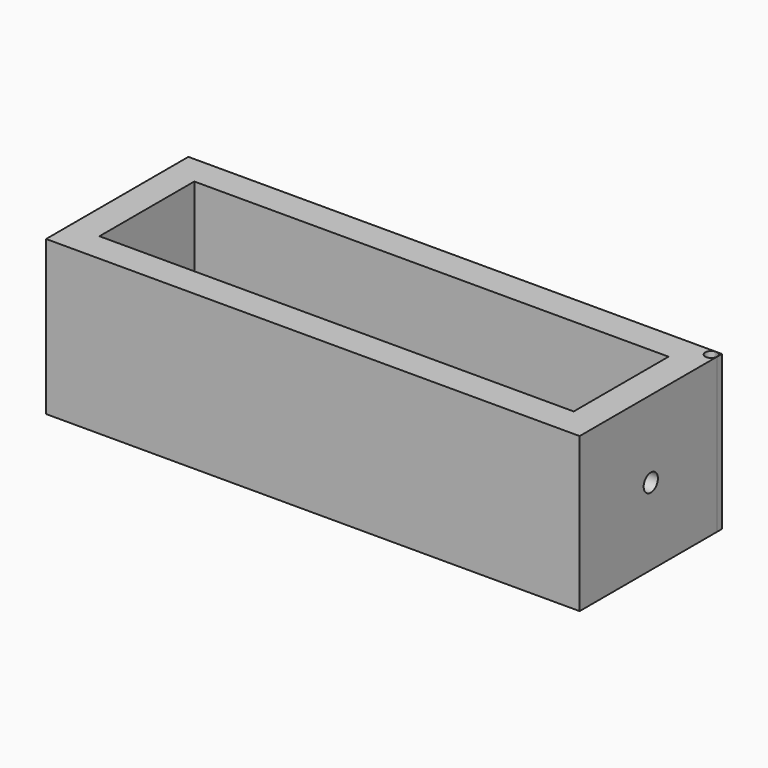
from build123d import *

# Parameters (mm, degrees)
F0_W     = 400
F0_H     = 100
F1_DEPTH = 65
F2_R     = 7.5
F3_DEPTH = 500


with BuildPart() as f1:
    # F0 (on Top) → F1 (new body, symmetric)
    with BuildSketch(Plane.XY):
        with BuildLine():
            Line((219.9999999506, 75), (-225, 75))
            Line((-225, 75), (-225, -75))
            Line((-225, -75), (225, -75))
            Line((225, -75), (225, 70))
            ThreePointArc((225, 70), (216.4644661115, 66.4644660766), (219.9999999506, 75))
        make_face()
        Rectangle(F0_W, F0_H, mode=Mode.SUBTRACT)
        with BuildLine():
            Line((219.9999999506, 75), (-225, 75))
            Line((-225, 75), (-225, -75))
            Line((-225, -75), (225, -75))
            Line((225, -75), (225, 70))
            ThreePointArc((225, 70), (216.4644661115, 66.4644660766), (219.9999999506, 75))
        make_face()
        Rectangle(F0_W, F0_H, mode=Mode.SUBTRACT)
    extrude(amount=F1_DEPTH, both=True)

    # F2 (on face) → F3 (cut, symmetric)
    with BuildSketch(Plane(origin=(-225, 0, 0), x_dir=(0, -1, 0), z_dir=(-1, 0, 0))):
        Circle(F2_R)
    extrude(amount=F3_DEPTH, both=True, mode=Mode.SUBTRACT)


with BuildPart() as f1b:
    # F0 (on Top) → F1, piece 2 (new body, symmetric)
    with BuildSketch(Plane.XY):
        with BuildLine():
            Line((225, 75), (219.9999999506, 75))
            ThreePointArc((219.9999999506, 75), (223.5355338885, 73.5355339234), (225, 70))
            Line((225, 70), (225, 75))
        make_face()
    extrude(amount=F1_DEPTH, both=True)


solid = Compound([f1.part, f1b.part])
